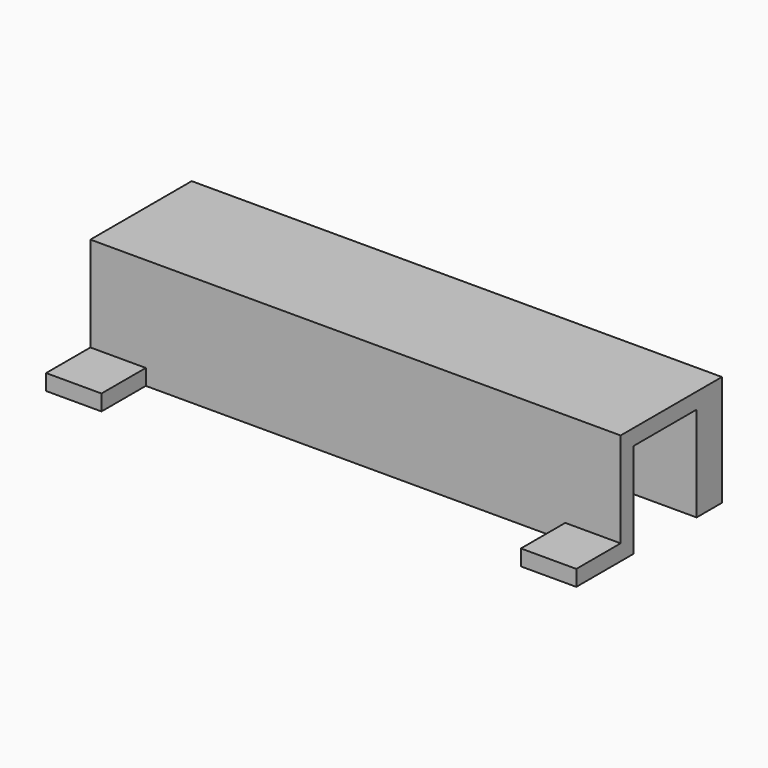
from build123d import *

# Parameters (mm, degrees)
BOX003_W     = 7
BOX003_H     = 9
BOX003_DEPTH = 2
BOX004_W     = 7
BOX004_H     = 9
BOX004_DEPTH = 2
BOX002_W     = 27
BOX002_H     = 10
BOX002_DEPTH = 12
BOX001_W     = 27
BOX001_H     = 10
BOX001_DEPTH = 12
BOX_W        = 67
BOX_H        = 16
BOX_DEPTH    = 14


with BuildPart() as cubo003:
    # Box003 → Box003 (new body)
    with BuildSketch(Plane(origin=(0, -7, 0), x_dir=(1, 0, 0), z_dir=(0, 0, 1))):
        with Locations((3.5, 4.5)):
            Rectangle(BOX003_W, BOX003_H)
    extrude(amount=BOX003_DEPTH)


with BuildPart() as fusion:
    # Box004 → Box004 (new body)
    with BuildSketch(Plane(origin=(60, -7, 0), x_dir=(1, 0, 0), z_dir=(0, 0, 1))):
        with Locations((3.5, 4.5)):
            Rectangle(BOX004_W, BOX004_H)
    extrude(amount=BOX004_DEPTH)

    # Fusion: union Cubo003
    add(cubo003.part)


with BuildPart() as cubo002:
    # Box002 → Box002 (new body)
    with BuildSketch(Plane(origin=(40, 2, 0), x_dir=(1, 0, 0), z_dir=(0, 0, 1))):
        with Locations((13.5, 5)):
            Rectangle(BOX002_W, BOX002_H)
    extrude(amount=BOX002_DEPTH)


with BuildPart() as cubo001:
    # Box001 → Box001 (new body)
    with BuildSketch(Plane(origin=(0, 2, 0), x_dir=(1, 0, 0), z_dir=(0, 0, 1))):
        with Locations((13.5, 5)):
            Rectangle(BOX001_W, BOX001_H)
    extrude(amount=BOX001_DEPTH)


with BuildPart() as fusion001:
    # Box → Box (new body)
    with BuildSketch(Plane.XY):
        with Locations((33.5, 8)):
            Rectangle(BOX_W, BOX_H)
    extrude(amount=BOX_DEPTH)

    # Cut: cut Cubo001
    add(cubo001.part, mode=Mode.SUBTRACT)

    # Cut001: cut Cubo002
    add(cubo002.part, mode=Mode.SUBTRACT)

    # Fusion001: union Fusion
    add(fusion.part)


solid = fusion001.part
